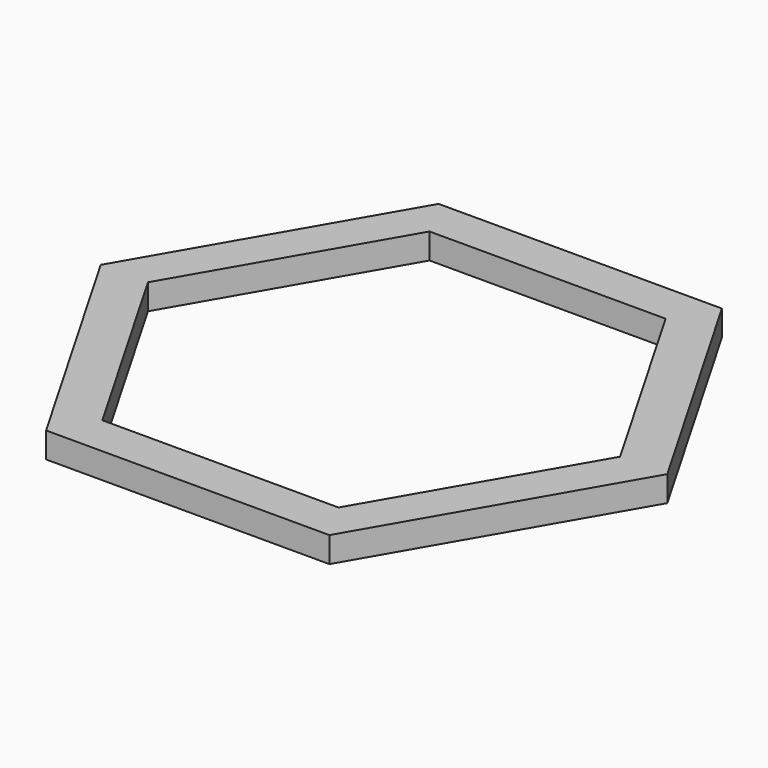
from build123d import *

# Parameters (mm, degrees)
F1_DEPTH = 6.35


with BuildPart() as f1:
    # F0 (on Top) → F1 (new body, symmetric)
    with BuildSketch(Plane.XY):
        Polygon((140.78109, 0), (70.390545, 121.92), (-70.390545, 121.92), (-140.78109, 0), (-70.390545, -121.92), (70.390545, -121.92), align=None)
        Polygon((-58.658787, 101.6), (58.658787, 101.6), (117.317575, 0), (58.658787, -101.6), (-58.658787, -101.6), (-117.317575, 0), align=None, mode=Mode.SUBTRACT)
    extrude(amount=F1_DEPTH, both=True)


solid = f1.part
